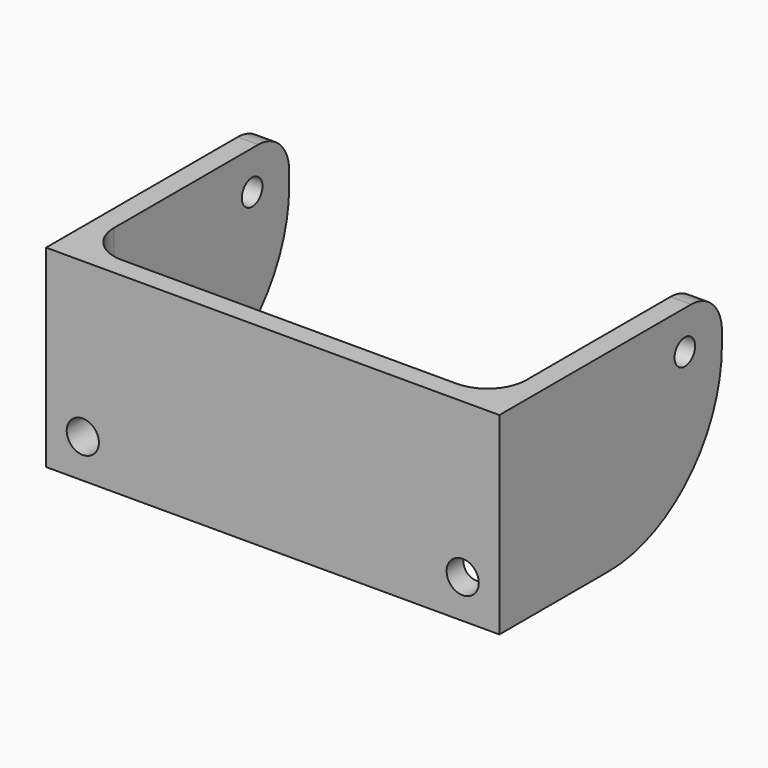
from build123d import *

# Parameters (mm, degrees)
F1_DEPTH = 15
F2_R     = 1.25
F3_DEPTH = 25
F4_R     = 1
F5_DEPTH = 35.201
F6_R     = 3
F7_R     = 11


with BuildPart() as f1:
    # F0 (on Top) → F1 (new body)
    with BuildSketch(Plane.XY):
        with BuildLine():
            Line((1.6, 0), (0, 0))
            Line((0, 0), (0, -21.6))
            Line((0, -21.6), (35.2, -21.6))
            Line((35.2, -21.6), (35.2, 0))
            Line((35.2, 0), (33.6, 0))
            Line((33.6, 0), (33.6, -17))
            ThreePointArc((33.6, -17), (32.72132, -19.12132), (30.6, -20))
            Line((30.6, -20), (4.6, -20))
            ThreePointArc((4.6, -20), (2.47868, -19.12132), (1.6, -17))
            Line((1.6, -17), (1.6, 0))
        make_face()
    extrude(amount=F1_DEPTH)

    # F2 (on face) → F3 (cut)
    with BuildSketch(Plane.XZ.offset(21.6)):
        with Locations((2.85, 3)):
            Circle(F2_R)
        with Locations((32.35, 3)):
            Circle(F2_R)
    extrude(amount=-F3_DEPTH, mode=Mode.SUBTRACT)

    # F4 (on face) → F5 (cut, through all)
    with BuildSketch(Plane.YZ.offset(35.2)):
        with Locations((-3.6, 12)):
            Circle(F4_R)
    extrude(amount=-F5_DEPTH, mode=Mode.SUBTRACT)

    # F6
    f6_edges = [f1.edges().sort_by_distance(p)[0] for p in [
        (0.8, 0, 15),
        (34.4, 0, 15),
    ]]
    fillet(f6_edges, radius=F6_R)

    # F7
    f7_edges = [f1.edges().sort_by_distance(p)[0] for p in [
        (34.4, 0, 0),
        (0.8, 0, 0),
    ]]
    fillet(f7_edges, radius=F7_R)


solid = f1.part
